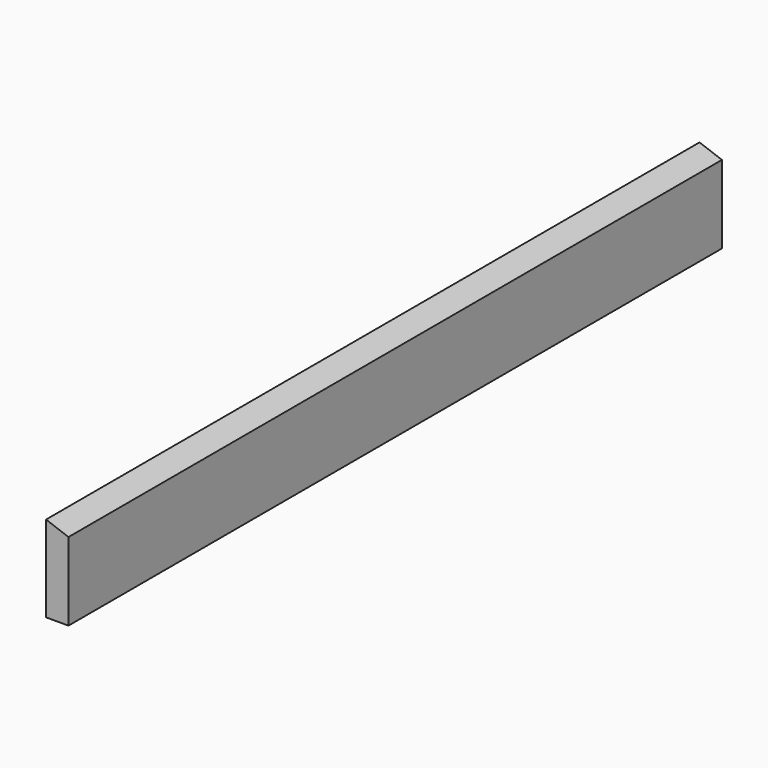
from build123d import *

# Parameters (mm, degrees)
PAD_DEPTH = 474


with BuildPart() as part:
    # Sketch → Pad (new body)
    with BuildSketch(Plane.XZ):
        Polygon((13, 0), (13, 45.268387), (0, 50), (0, 0), align=None)
    extrude(amount=-PAD_DEPTH)


solid = part.part
